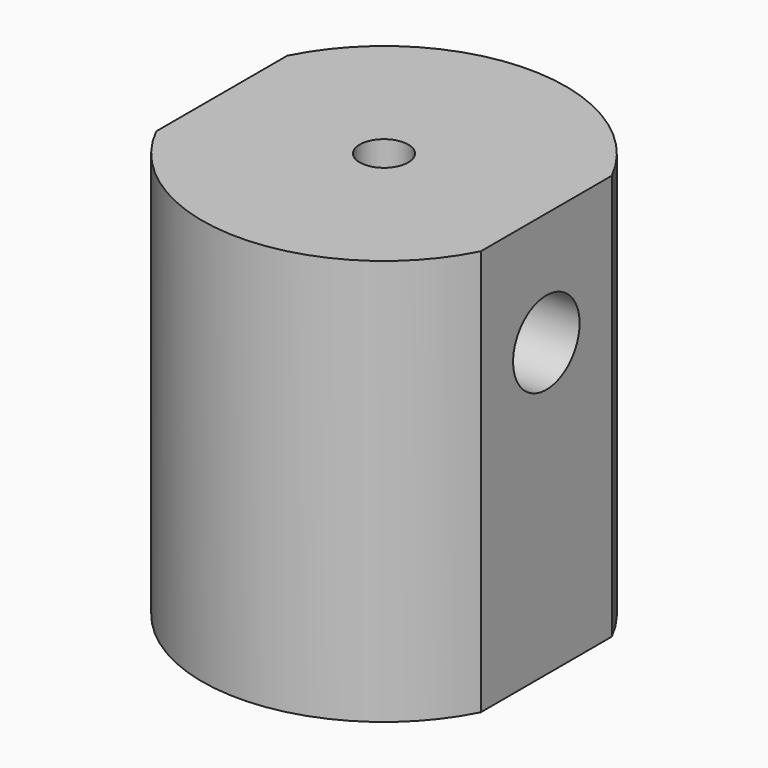
from build123d import *

# Parameters (mm, degrees)
F0_R     = 14.224
F1_DEPTH = 31.75
F2_R     = 9.652
F3_DEPTH = 19.05
F5_D     = 3.7973
F7_DEPTH = 31.75
F8_R     = 3.2512
F9_DEPTH = 25.401


with BuildPart() as f1:
    # F0 (on Top) → F1 (new body)
    with BuildSketch(Plane.XY):
        Circle(F0_R)
    extrude(amount=F1_DEPTH)

    # F2 (on face) → F3 (cut)
    with BuildSketch(Plane(origin=(0, 0, 0), x_dir=(1, 0, 0), z_dir=(0, 0, -1))):
        Circle(F2_R)
    extrude(amount=-F3_DEPTH, mode=Mode.SUBTRACT)

    # F5 (through all)
    with Locations(Plane.XY.offset(31.75)):
        with Locations((0, 0)):
            Hole(F5_D / 2)

    # F6 (on face) → F7 (cut, through all)
    with BuildSketch(Plane.XY.offset(31.75)):
        with BuildLine():
            Line((-12.7, -6.4056362682), (-12.7, 6.4056362682))
            ThreePointArc((-12.7, 6.4056362682), (-14.224, 0), (-12.7, -6.4056362682))
        make_face()
        with BuildLine():
            ThreePointArc((12.7, -6.4056362682), (14.224, 0), (12.7, 6.4056362682))
            Line((12.7, 6.4056362682), (12.7, -6.4056362682))
        make_face()
    extrude(amount=-F7_DEPTH, mode=Mode.SUBTRACT)

    # F8 (on face) → F9 (cut, through all)
    with BuildSketch(Plane.YZ.offset(12.7)):
        with Locations((0, 22.86)):
            Circle(F8_R)
    extrude(amount=-F9_DEPTH, mode=Mode.SUBTRACT)


solid = f1.part
